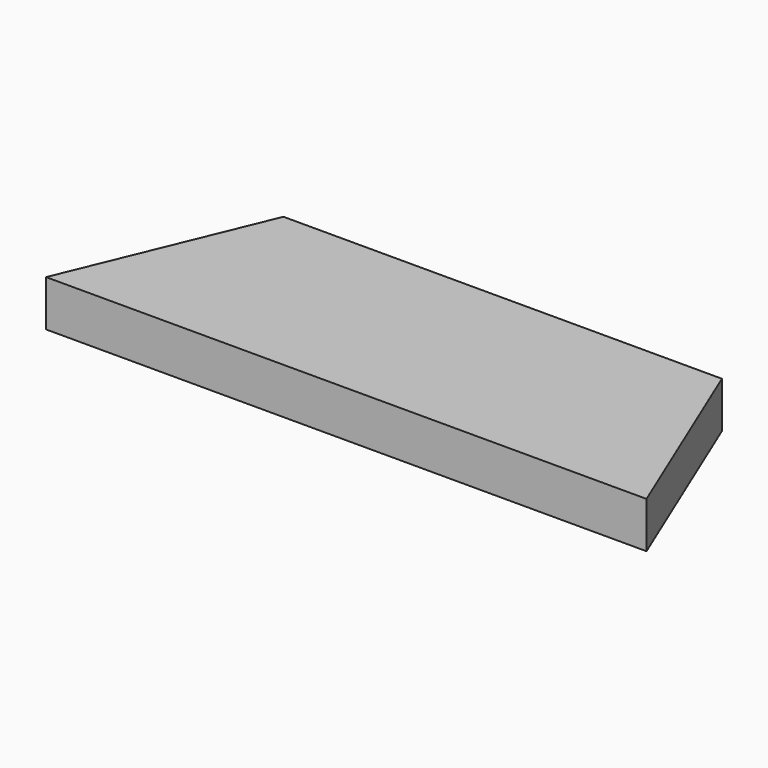
from build123d import *

# Parameters (mm, degrees)
F0_W     = 430
F0_H     = 140
F1_DEPTH = 16.5
F3_DEPTH = 33.001


with BuildPart() as f1:
    # F0 (on Top) → F1 (new body, symmetric)
    with BuildSketch(Plane.XY):
        Rectangle(F0_W, F0_H)
    extrude(amount=F1_DEPTH, both=True)

    # F2 (on face) → F3 (cut, through all)
    with BuildSketch(Plane.XY.offset(16.5)):
        Polygon((-215, 70), (-215, -70), (-157.010101, 70), align=None)
        Polygon((215, -70), (215, 70), (157.010101, 70), align=None)
    extrude(amount=-F3_DEPTH, mode=Mode.SUBTRACT)


solid = f1.part
